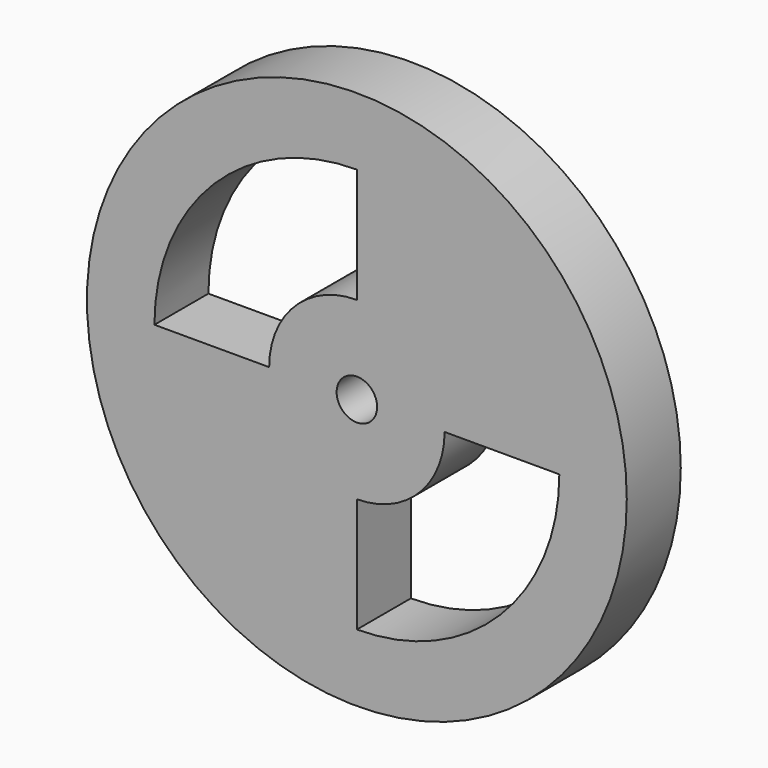
from build123d import *

# Parameters (mm, degrees)
F0_R     = 20
F0_R_2   = 1.5
F1_DEPTH = 5


with BuildPart() as f1:
    # F0 (on Front) → F1 (new body)
    with BuildSketch(Plane.XZ):
        with Locations((-80.069833, 25.956705)):
            Circle(F0_R)
        with BuildLine():
            Line((-80.069833, 10.956705), (-80.069833, 19.456705))
            ThreePointArc((-80.069833, 19.456705), (-75.473638, 21.360511), (-73.569833, 25.956705))
            Line((-73.569833, 25.956705), (-65.069832, 25.956705))
            ThreePointArc((-65.069832, 25.956705), (-69.46323, 15.350103), (-80.069833, 10.956705))
        make_face(mode=Mode.SUBTRACT)
        with BuildLine():
            Line((-80.069833, 40.956706), (-80.069833, 32.456705))
            ThreePointArc((-80.069833, 32.456705), (-84.666027, 30.552899), (-86.569833, 25.956705))
            Line((-86.569833, 25.956705), (-95.069833, 25.956705))
            ThreePointArc((-95.069833, 25.956705), (-90.676435, 36.563307), (-80.069833, 40.956706))
        make_face(mode=Mode.SUBTRACT)
        with Locations((-80.069833, 25.956705)):
            Circle(F0_R_2, mode=Mode.SUBTRACT)
    extrude(amount=F1_DEPTH)


solid = f1.part
